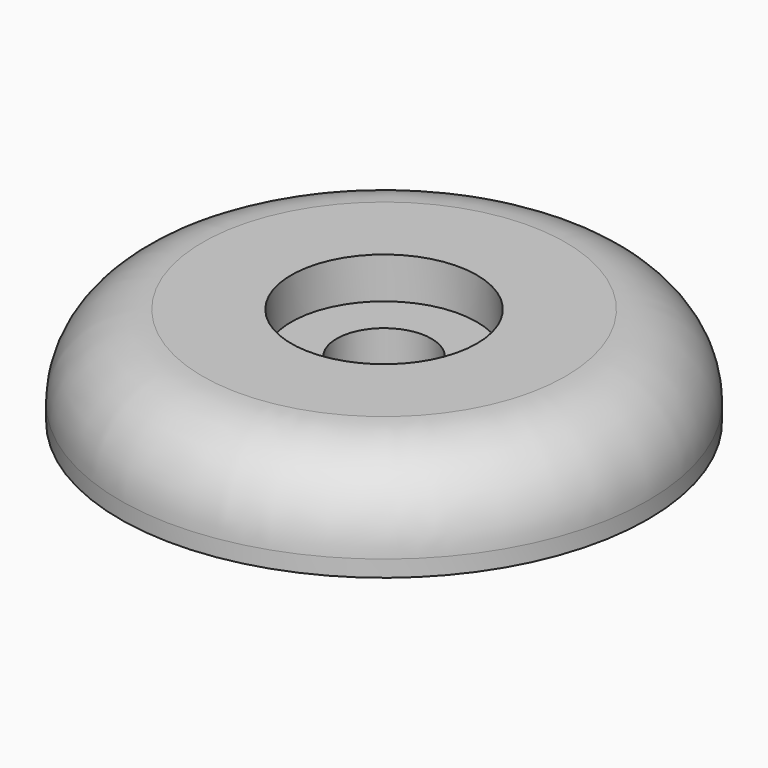
from build123d import *

# Parameters (mm, degrees)
F0_R     = 6.4
F0_R_2   = 1.15
F1_DEPTH = 2.4
F2_R     = 2.25
F3_DEPTH = 1
F4_R     = 2


with BuildPart() as f1:
    # F0 (on Top) → F1 (new body)
    with BuildSketch(Plane.XY):
        Circle(F0_R)
        Circle(F0_R_2, mode=Mode.SUBTRACT)
    extrude(amount=F1_DEPTH)

    # F2 (on face) → F3 (cut)
    with BuildSketch(Plane.XY.offset(2.4)):
        Circle(F2_R)
    extrude(amount=-F3_DEPTH, mode=Mode.SUBTRACT)

    # F4
    f4_edges = [f1.edges().sort_by_distance(p)[0] for p in [
        (-6.4, 0, 2.4),
    ]]
    fillet(f4_edges, radius=F4_R)


solid = f1.part
